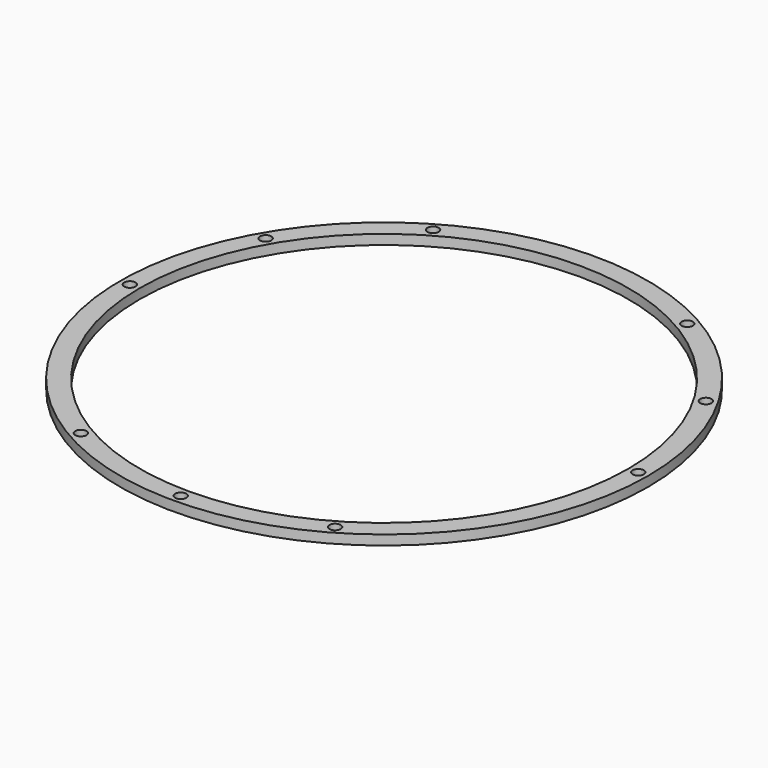
from build123d import *

# Parameters (mm, degrees)
F0_R     = 85.725
F0_R_2   = 1.8288
F0_R_3   = 79.375
F1_DEPTH = 3.175


with BuildPart() as f1:
    # F0 (on Top) → F1 (new body)
    with BuildSketch(Plane.XY):
        Circle(F0_R)
        with Locations((-41.275, -71.490397)):
            Circle(F0_R_2, mode=Mode.SUBTRACT)
        with Locations((0, -82.55)):
            Circle(F0_R_2, mode=Mode.SUBTRACT)
        with Locations((41.275, -71.490397)):
            Circle(F0_R_2, mode=Mode.SUBTRACT)
        with Locations((-82.55, 0)):
            Circle(F0_R_2, mode=Mode.SUBTRACT)
        with Locations((-71.490397, 41.275)):
            Circle(F0_R_2, mode=Mode.SUBTRACT)
        with Locations((-41.275, 71.490397)):
            Circle(F0_R_2, mode=Mode.SUBTRACT)
        Circle(F0_R_3, mode=Mode.SUBTRACT)
        with Locations((82.55, 0)):
            Circle(F0_R_2, mode=Mode.SUBTRACT)
        with Locations((71.490397, 41.275)):
            Circle(F0_R_2, mode=Mode.SUBTRACT)
        with Locations((41.275, 71.490397)):
            Circle(F0_R_2, mode=Mode.SUBTRACT)
    extrude(amount=F1_DEPTH)


solid = f1.part
